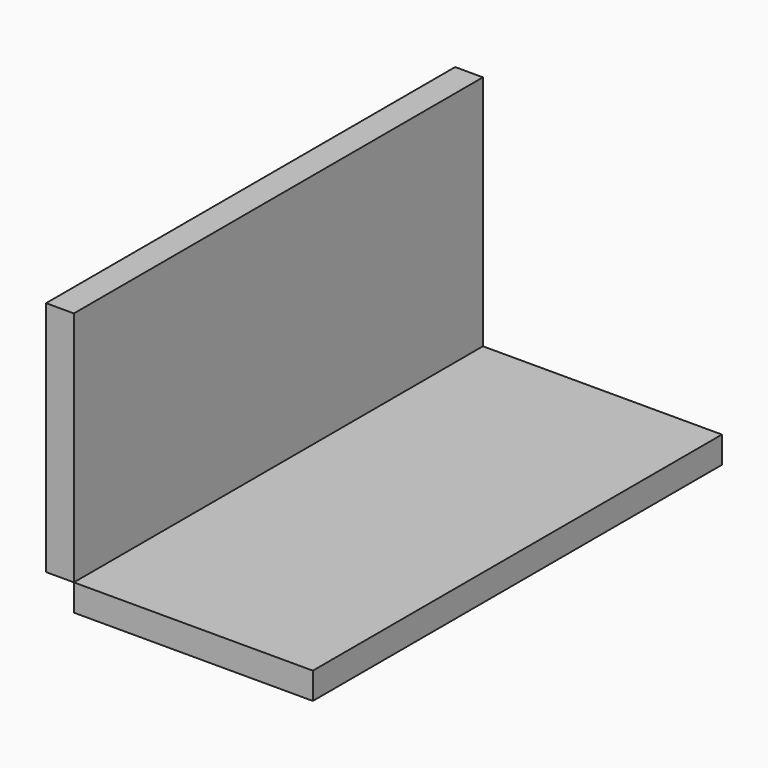
from build123d import *

# Parameters (mm, degrees)
F0_W     = 1000
F0_H     = 1030
F1_DEPTH = 1
F2_W     = 995.0948357582
F2_H     = 1797.5890636444
F3_DEPTH = 100
F5_W     = 2150
F5_H     = 4600
F6_DEPTH = 240
F7_W     = 4600
F7_H     = 2130
F8_DEPTH = 250


with BuildPart() as f1:
    # F0 (on Front) → F1 (new body)
    with BuildSketch(Plane.XZ):
        with Locations((500, 515)):
            Rectangle(F0_W, F0_H)
    extrude(amount=F1_DEPTH)

    # F2 (on Top) → F3 (join)
    with BuildSketch(Plane.XY):
        with Locations((497.5474178791, -898.7945318222)):
            Rectangle(F2_W, F2_H)
    extrude(amount=F3_DEPTH)


with BuildPart() as f6:
    # F5 (on Top) → F6 (new body)
    with BuildSketch(Plane.XY):
        with Locations((-894.210924619, -462.9937782884)):
            Rectangle(F5_W, F5_H)
    extrude(amount=F6_DEPTH)


with BuildPart() as f8:
    # F7 (on face) → F8 (new body)
    with BuildSketch(Plane(origin=(-1969.210924619, 0, 0), x_dir=(0, -1, 0), z_dir=(-1, 0, 0))):
        with Locations((462.9937782884, 1305)):
            Rectangle(F7_W, F7_H)
    extrude(amount=F8_DEPTH)


solid = Compound([f6.part, f8.part])
